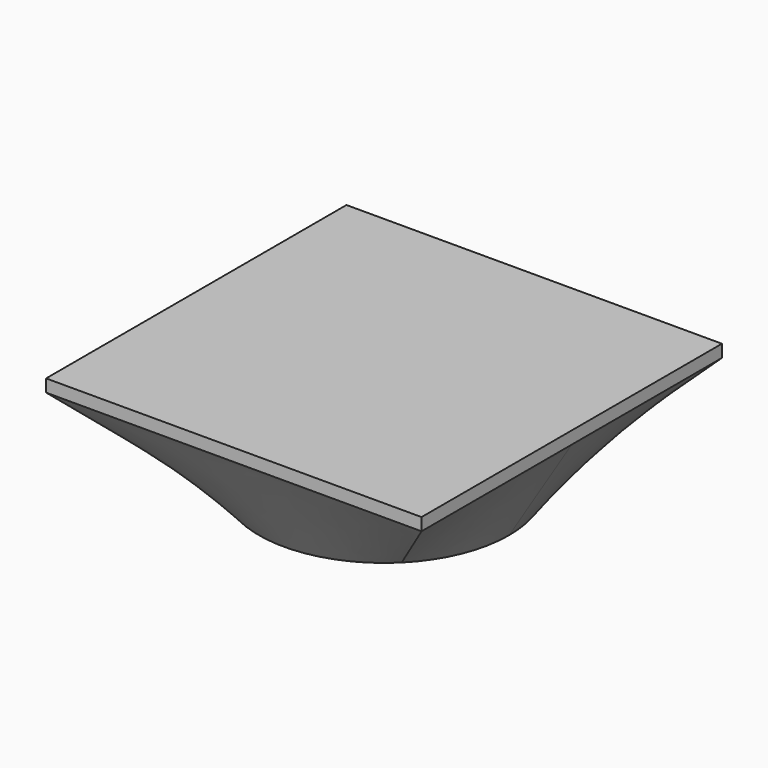
from build123d import *

# Parameters (mm, degrees)
F0_R      = 25.4
F3_DEPTH  = 2.54
F4_DEPTH  = 2.54
F4_FACE_W = 76.2
F4_FACE_H = 76.2
F3_FACE_R = 25.4
F6_DEPTH  = 2.54


with BuildPart() as f3:
    # F0 (on Top) → F3 (new body)
    with BuildSketch(Plane.XY):
        Circle(F0_R)
    extrude(amount=F3_DEPTH)



with BuildPart() as f4:
    # F2 (on offset) → F4 (new body)
    with BuildSketch(Plane.XY.offset(25.4)):
        Polygon((38.1, -38.1), (38.1, 0), (38.1, 38.1), (-38.1, 38.1), (-38.1, -38.1), align=None)
    extrude(amount=-F4_DEPTH)


with BuildPart() as f3_1:
    add(f3.part)

    add(f4.part)  # F5 merges F4
    # F4_face (on face) → F5 section 0
    with BuildSketch(Plane(origin=(0, 0, 22.86), x_dir=(1, 0, 0), z_dir=(0, 0, -1))):
        Rectangle(F4_FACE_W, F4_FACE_H)
    # F3_face (on face) → F5 section 1
    with BuildSketch(Plane.XY.offset(2.54)):
        Circle(F3_FACE_R)
    loft()

    # F6 (cut): a face of the model
    f6_faces = [f3_1.faces().sort_by_distance(p)[0] for p in [
        (0, 0, 0),
    ]]
    extrude(f6_faces, amount=-F6_DEPTH, mode=Mode.SUBTRACT)


solid = f3_1.part
